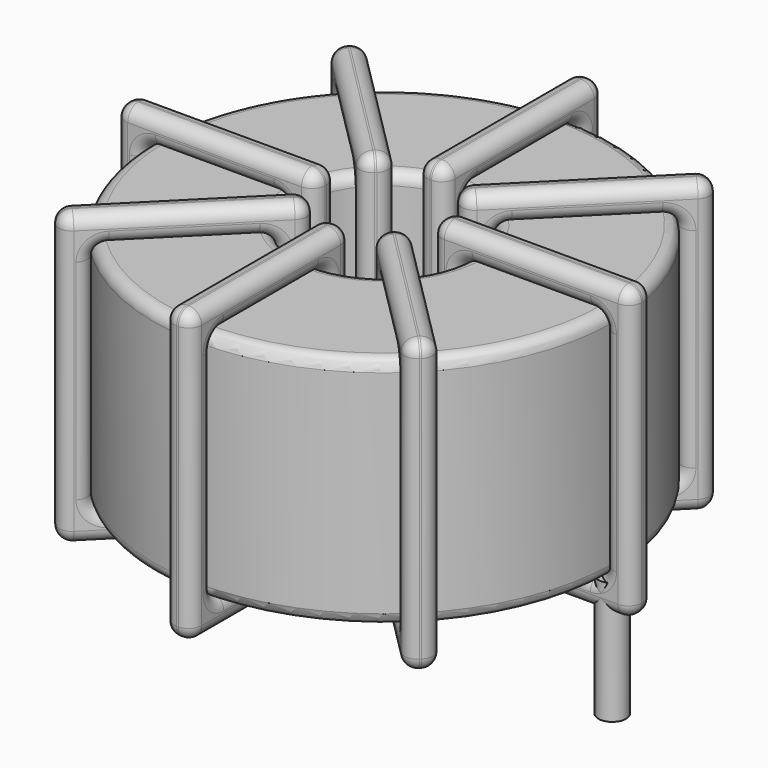
from build123d import *

# Parameters (mm, degrees)
SKETCH001_R       = 0.6
PAD001_DEPTH      = 0.6
PAD001_DEPTH_BACK = 4.7
SKETCH_R          = 10
SKETCH_R_2        = 3.733333
PAD_DEPTH         = 10.2
FILLET_R          = 0.5
SKETCH003_W       = 8.666667
SKETCH003_H       = 12.6
SKETCH003_W_2     = 6.266667
SKETCH003_H_2     = 10.2
PAD002_DEPTH      = 0.6
FILLET001_R       = 0.564
SKETCH004_W       = 8.666667
SKETCH004_H       = 12.6
SKETCH004_W_2     = 6.266667
SKETCH004_H_2     = 10.2
PAD003_DEPTH      = 0.6
FILLET002_R       = 0.564
SKETCH005_W       = 8.666667
SKETCH005_H       = 12.6
SKETCH005_W_2     = 6.266667
SKETCH005_H_2     = 10.2
PAD004_DEPTH      = 0.6
FILLET003_R       = 0.564
SKETCH006_W       = 8.666667
SKETCH006_H       = 12.6
SKETCH006_W_2     = 6.266667
SKETCH006_H_2     = 10.2
PAD005_DEPTH      = 0.6
FILLET004_R       = 0.564


with BuildPart() as pad001:
    # Sketch001 → Pad001 (new body, two sides)
    with BuildSketch(Plane.XY.offset(1.1)) as pad001_sk:
        Circle(SKETCH001_R)
        with Locations((19.8, 0)):
            Circle(SKETCH001_R)
    extrude(amount=PAD001_DEPTH)
    extrude(pad001_sk.sketch, amount=-PAD001_DEPTH_BACK)


with BuildPart() as fillet_body:
    # Sketch → Pad (new body)
    with BuildSketch(Plane.XY.offset(1.7)):
        with Locations((9.9, 0)):
            Circle(SKETCH_R)
        with Locations((9.9, 0)):
            Circle(SKETCH_R_2, mode=Mode.SUBTRACT)
    extrude(amount=PAD_DEPTH)

    # Fillet
    fillet_edges = [fillet_body.edges().sort_by_distance(p)[0] for p in [
        (6.166667, 0, 11.9),
        (-0.1, 0, 11.9),
        (-0.1, 0, 1.7),
    ]]
    fillet(fillet_edges, radius=FILLET_R)


with BuildPart() as fillet001:
    # Sketch003 → Pad002 (new body, symmetric)
    with BuildSketch(Plane(origin=(9.9, 0, 0), x_dir=(1, 0, 0), z_dir=(0, -1, 0))):
        with Locations((-6.866666, 6.8)):
            Rectangle(SKETCH003_W, SKETCH003_H)
        with Locations((-6.866667, 6.8)):
            Rectangle(SKETCH003_W_2, SKETCH003_H_2, mode=Mode.SUBTRACT)
        with Locations((6.866666, 6.8)):
            Rectangle(SKETCH003_W, SKETCH003_H)
        with Locations((6.866667, 6.8)):
            Rectangle(SKETCH003_W_2, SKETCH003_H_2, mode=Mode.SUBTRACT)
    extrude(amount=PAD002_DEPTH, both=True)

    # Fillet001
    fillet001_edges = [fillet001.edges().sort_by_distance(p)[0] for p in [
        (6.166667, 0, 11.9),
        (6.166667, 0, 1.7),
        (6.166667, 0.6, 6.8),
        (6.166667, -0.6, 6.8),
        (-1.3, 0, 13.1),
        (7.366667, 0, 13.1),
        (3.033333, 0.6, 13.1),
        (3.033333, -0.6, 13.1),
        (7.366667, 0, 0.5),
        (7.366667, 0.6, 6.8),
        (7.366667, -0.6, 6.8),
        (13.633333, 0, 11.9),
        (19.9, 0, 11.9),
        (16.766667, 0.6, 11.9),
        (16.766667, -0.6, 11.9),
        (19.9, 0, 1.7),
        (19.9, 0.6, 6.8),
        (19.9, -0.6, 6.8),
        (12.433333, 0, 13.1),
        (21.1, 0, 13.1),
        (16.766667, 0.6, 13.1),
        (16.766667, -0.6, 13.1),
        (21.1, 0, 0.5),
        (21.1, 0.6, 6.8),
        (21.1, -0.6, 6.8),
        (-0.1, 0, 11.9),
        (3.033333, 0.6, 11.9),
        (3.033333, -0.6, 11.9),
        (13.633333, 0, 1.7),
        (13.633333, 0.6, 6.8),
        (13.633333, -0.6, 6.8),
        (16.766667, 0.6, 1.7),
        (16.766667, -0.6, 1.7),
        (12.433333, 0, 0.5),
        (16.766667, 0.6, 0.5),
        (16.766667, -0.6, 0.5),
        (12.433333, 0.6, 6.8),
        (12.433333, -0.6, 6.8),
        (-1.3, 0, 0.5),
        (3.033333, 0.6, 0.5),
        (3.033333, -0.6, 0.5),
        (-1.3, 0.6, 6.8),
        (-1.3, -0.6, 6.8),
        (-0.1, 0, 1.7),
        (-0.1, 0.6, 6.8),
        (-0.1, -0.6, 6.8),
        (3.033333, 0.6, 1.7),
        (3.033333, -0.6, 1.7),
    ]]
    fillet(fillet001_edges, radius=FILLET001_R)


with BuildPart() as fillet002:
    # Sketch004 → Pad003 (new body, symmetric)
    with BuildSketch(Plane(origin=(9.9, 0, 0), x_dir=(0.707107, 0.707107, 0), z_dir=(0.707107, -0.707107, 0))):
        with Locations((-6.866666, 6.8)):
            Rectangle(SKETCH004_W, SKETCH004_H)
        with Locations((-6.866667, 6.8)):
            Rectangle(SKETCH004_W_2, SKETCH004_H_2, mode=Mode.SUBTRACT)
        with Locations((6.866666, 6.8)):
            Rectangle(SKETCH004_W, SKETCH004_H)
        with Locations((6.866667, 6.8)):
            Rectangle(SKETCH004_W_2, SKETCH004_H_2, mode=Mode.SUBTRACT)
    extrude(amount=PAD003_DEPTH, both=True)

    # Fillet002
    fillet002_edges = [fillet002.edges().sort_by_distance(p)[0] for p in [
        (7.260135, -2.639865, 11.9),
        (7.260135, -2.639865, 1.7),
        (6.835871, -2.215601, 6.8),
        (7.684399, -3.064129, 6.8),
        (1.980404, -7.919596, 13.1),
        (1.980404, -7.919596, 0.5),
        (1.55614, -7.495332, 6.8),
        (2.404668, -8.34386, 6.8),
        (8.108663, -1.791337, 13.1),
        (4.620269, -4.431202, 0.5),
        (5.468798, -5.279731, 0.5),
        (12.539865, 2.639865, 11.9),
        (16.971068, 7.071068, 11.9),
        (14.331202, 5.279731, 11.9),
        (15.179731, 4.431202, 11.9),
        (16.971068, 7.071068, 1.7),
        (16.546804, 7.495332, 6.8),
        (17.395332, 6.646804, 6.8),
        (11.691337, 1.791337, 13.1),
        (17.819596, 7.919596, 13.1),
        (14.331202, 5.279731, 13.1),
        (15.179731, 4.431202, 13.1),
        (17.819596, 7.919596, 0.5),
        (17.395332, 8.34386, 6.8),
        (18.24386, 7.495332, 6.8),
        (2.828932, -7.071068, 11.9),
        (4.620269, -4.431202, 11.9),
        (5.468798, -5.279731, 11.9),
        (12.539865, 2.639865, 1.7),
        (12.115601, 3.064129, 6.8),
        (12.964129, 2.215601, 6.8),
        (14.331202, 5.279731, 1.7),
        (15.179731, 4.431202, 1.7),
        (11.691337, 1.791337, 0.5),
        (14.331202, 5.279731, 0.5),
        (15.179731, 4.431202, 0.5),
        (11.267073, 2.215601, 6.8),
        (12.115601, 1.367073, 6.8),
        (8.108663, -1.791337, 0.5),
        (7.684399, -1.367073, 6.8),
        (8.532927, -2.215601, 6.8),
        (4.620269, -4.431202, 13.1),
        (5.468798, -5.279731, 13.1),
        (2.828932, -7.071068, 1.7),
        (2.404668, -6.646804, 6.8),
        (3.253196, -7.495332, 6.8),
        (4.620269, -4.431202, 1.7),
        (5.468798, -5.279731, 1.7),
    ]]
    fillet(fillet002_edges, radius=FILLET002_R)


with BuildPart() as fillet003:
    # Sketch005 → Pad004 (new body, symmetric)
    with BuildSketch(Plane(origin=(9.9, 0, 0), x_dir=(0.707107, -0.707107, 0), z_dir=(-0.707107, -0.707107, 0))):
        with Locations((-6.866666, 6.8)):
            Rectangle(SKETCH005_W, SKETCH005_H)
        with Locations((-6.866667, 6.8)):
            Rectangle(SKETCH005_W_2, SKETCH005_H_2, mode=Mode.SUBTRACT)
        with Locations((6.866666, 6.8)):
            Rectangle(SKETCH005_W, SKETCH005_H)
        with Locations((6.866667, 6.8)):
            Rectangle(SKETCH005_W_2, SKETCH005_H_2, mode=Mode.SUBTRACT)
    extrude(amount=PAD004_DEPTH, both=True)

    # Fillet003
    fillet003_edges = [fillet003.edges().sort_by_distance(p)[0] for p in [
        (7.260135, 2.639865, 11.9),
        (7.260135, 2.639865, 1.7),
        (7.684399, 3.064129, 6.8),
        (6.835871, 2.215601, 6.8),
        (1.980404, 7.919596, 13.1),
        (8.108663, 1.791337, 13.1),
        (5.468798, 5.279731, 13.1),
        (4.620269, 4.431202, 13.1),
        (8.108663, 1.791337, 0.5),
        (8.532927, 2.215601, 6.8),
        (7.684399, 1.367073, 6.8),
        (12.539865, -2.639865, 11.9),
        (16.971068, -7.071068, 11.9),
        (15.179731, -4.431202, 11.9),
        (14.331202, -5.279731, 11.9),
        (16.971068, -7.071068, 1.7),
        (17.395332, -6.646804, 6.8),
        (16.546804, -7.495332, 6.8),
        (11.691337, -1.791337, 13.1),
        (17.819596, -7.919596, 13.1),
        (15.179731, -4.431202, 13.1),
        (14.331202, -5.279731, 13.1),
        (17.819596, -7.919596, 0.5),
        (18.24386, -7.495332, 6.8),
        (17.395332, -8.34386, 6.8),
        (2.828932, 7.071068, 11.9),
        (5.468798, 5.279731, 11.9),
        (4.620269, 4.431202, 11.9),
        (12.539865, -2.639865, 1.7),
        (12.964129, -2.215601, 6.8),
        (12.115601, -3.064129, 6.8),
        (15.179731, -4.431202, 1.7),
        (14.331202, -5.279731, 1.7),
        (11.691337, -1.791337, 0.5),
        (15.179731, -4.431202, 0.5),
        (14.331202, -5.279731, 0.5),
        (12.115601, -1.367073, 6.8),
        (11.267073, -2.215601, 6.8),
        (1.980404, 7.919596, 0.5),
        (5.468798, 5.279731, 0.5),
        (4.620269, 4.431202, 0.5),
        (2.404668, 8.34386, 6.8),
        (1.55614, 7.495332, 6.8),
        (2.828932, 7.071068, 1.7),
        (3.253196, 7.495332, 6.8),
        (2.404668, 6.646804, 6.8),
        (5.468798, 5.279731, 1.7),
        (4.620269, 4.431202, 1.7),
    ]]
    fillet(fillet003_edges, radius=FILLET003_R)


with BuildPart() as fillet004:
    # Sketch006 → Pad005 (new body, symmetric)
    with BuildSketch(Plane.YZ.offset(9.9)):
        with Locations((-6.866666, 6.8)):
            Rectangle(SKETCH006_W, SKETCH006_H)
        with Locations((-6.866667, 6.8)):
            Rectangle(SKETCH006_W_2, SKETCH006_H_2, mode=Mode.SUBTRACT)
        with Locations((6.866666, 6.8)):
            Rectangle(SKETCH006_W, SKETCH006_H)
        with Locations((6.866667, 6.8)):
            Rectangle(SKETCH006_W_2, SKETCH006_H_2, mode=Mode.SUBTRACT)
    extrude(amount=PAD005_DEPTH, both=True)

    # Fillet004
    fillet004_edges = [fillet004.edges().sort_by_distance(p)[0] for p in [
        (9.9, -3.733333, 11.9),
        (9.9, -3.733333, 1.7),
        (9.3, -3.733333, 6.8),
        (10.5, -3.733333, 6.8),
        (9.9, -11.2, 13.1),
        (9.9, -2.533333, 13.1),
        (9.3, -6.866667, 13.1),
        (10.5, -6.866667, 13.1),
        (9.9, -2.533333, 0.5),
        (9.3, -2.533333, 6.8),
        (10.5, -2.533333, 6.8),
        (9.9, 3.733333, 11.9),
        (9.9, 10, 11.9),
        (9.3, 6.866667, 11.9),
        (10.5, 6.866667, 11.9),
        (9.9, 10, 1.7),
        (9.3, 10, 6.8),
        (10.5, 10, 6.8),
        (9.9, 2.533333, 13.1),
        (9.9, 11.2, 13.1),
        (9.3, 6.866667, 13.1),
        (10.5, 6.866667, 13.1),
        (9.9, 11.2, 0.5),
        (9.3, 11.2, 6.8),
        (10.5, 11.2, 6.8),
        (9.9, -10, 11.9),
        (9.3, -6.866667, 11.9),
        (10.5, -6.866667, 11.9),
        (9.9, 3.733333, 1.7),
        (9.3, 3.733333, 6.8),
        (10.5, 3.733333, 6.8),
        (9.3, 6.866667, 1.7),
        (10.5, 6.866667, 1.7),
        (9.9, 2.533333, 0.5),
        (9.3, 6.866667, 0.5),
        (10.5, 6.866667, 0.5),
        (9.3, 2.533333, 6.8),
        (10.5, 2.533333, 6.8),
        (9.9, -11.2, 0.5),
        (9.3, -6.866667, 0.5),
        (10.5, -6.866667, 0.5),
        (9.3, -11.2, 6.8),
        (10.5, -11.2, 6.8),
        (9.9, -10, 1.7),
        (9.3, -10, 6.8),
        (10.5, -10, 6.8),
        (9.3, -6.866667, 1.7),
        (10.5, -6.866667, 1.7),
    ]]
    fillet(fillet004_edges, radius=FILLET004_R)


solid = Compound([pad001.part, fillet_body.part, fillet001.part, fillet002.part, fillet003.part, fillet004.part])
